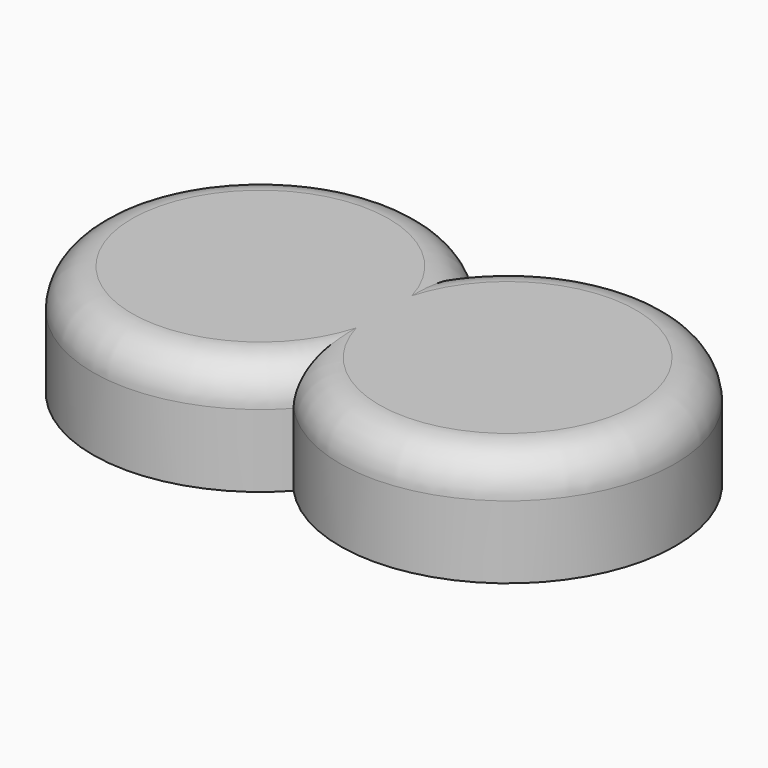
from build123d import *

# Parameters (mm, degrees)
F1_DEPTH = 25.4
F2_R     = 8.89


with BuildPart() as f1:
    # F0 (on Top) → F1 (new body)
    with BuildSketch(Plane.XY):
        with BuildLine():
            ThreePointArc((29.204641, 25.700462), (-37.021792, 0), (29.204641, -25.700462))
            ThreePointArc((29.204641, -25.700462), (95.431074, 0), (29.204641, 25.700462))
        make_face()
    extrude(amount=F1_DEPTH)

    # F2
    f2_edges = [f1.edges().sort_by_distance(p)[0] for p in [
        (95.431074, 0, 25.4),
        (-37.021792, 0, 25.4),
    ]]
    fillet(f2_edges, radius=F2_R)


solid = f1.part
